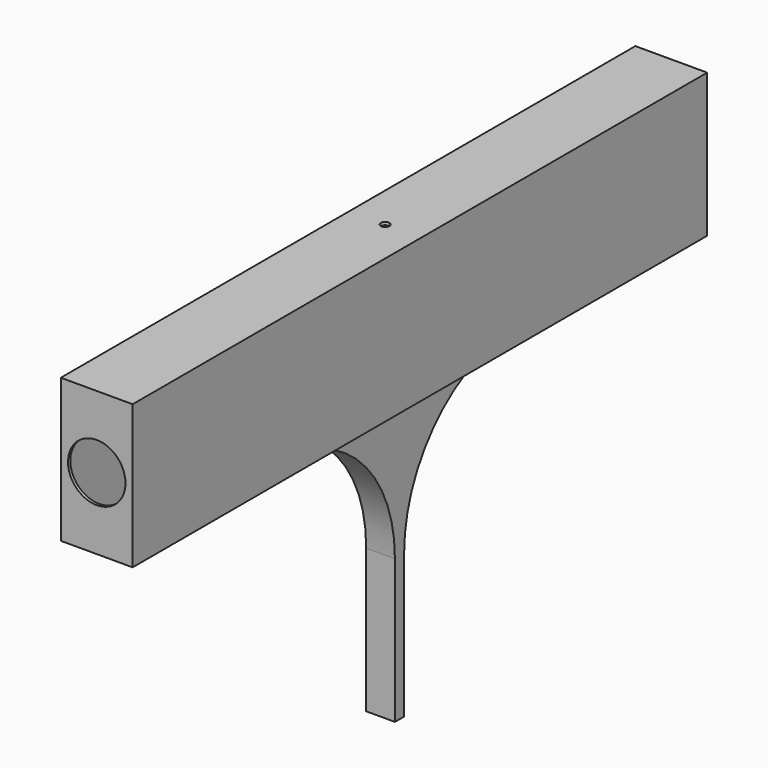
from build123d import *

# Parameters (mm, degrees)
F1_DEPTH = 1.25
F2_DEPTH = 0.5
F3_DEPTH = 0.5
F4_T     = -0.1
F6_DEPTH = 0.1
F8_DEPTH = 0.1
F9_D     = 2
F11_D    = 0.3


with BuildPart() as f1:
    # F0 (on Right) → F1 (new body, symmetric)
    with BuildSketch(Plane.YZ):
        Polygon((-96.8298226595, 19.8576506227), (-96.8298226595, 24.8576506227), (-121.8298226595, 24.8576506227), (-121.8298226595, 19.8576506227), (-114.4798226595, 19.8576506227), (-114.3298226595, 19.8576506227), (-114.2798226595, 19.8576506227), (-109.2798226595, 19.8576506227), (-104.2298226595, 19.8576506227), (-104.0798226595, 19.8576506227), align=None)
    extrude(amount=F1_DEPTH, both=True)

    # F0 (on Right) → F2 (join)
    with BuildSketch(Plane.YZ):
        with BuildLine():
            ThreePointArc((-109.0798226595, 14.8576506227), (-107.6153565654, 18.3931845287), (-104.0798226595, 19.8576506227))
            Line((-104.0798226595, 19.8576506227), (-104.2298226595, 19.8576506227))
            Line((-104.2298226595, 19.8576506227), (-109.2798226595, 19.8576506227))
            Line((-109.2798226595, 19.8576506227), (-109.2798226595, 9.8576506227))
            Line((-109.2798226595, 9.8576506227), (-109.0798226595, 9.8576506227))
            Line((-109.0798226595, 9.8576506227), (-109.0798226595, 14.8576506227))
        make_face()
        with BuildLine():
            Line((-114.3298226595, 19.8576506227), (-114.4798226595, 19.8576506227))
            ThreePointArc((-114.4798226595, 19.8576506227), (-110.9442887536, 18.3931845287), (-109.4798226595, 14.8576506227))
            Line((-109.4798226595, 14.8576506227), (-109.4798226595, 9.8576506227))
            Line((-109.4798226595, 9.8576506227), (-109.2798226595, 9.8576506227))
            Line((-109.2798226595, 9.8576506227), (-109.2798226595, 19.8576506227))
            Line((-109.2798226595, 19.8576506227), (-114.2798226595, 19.8576506227))
            Line((-114.2798226595, 19.8576506227), (-114.3298226595, 19.8576506227))
        make_face()
    extrude(amount=F2_DEPTH)

    # F0 (on Right) → F3 (join)
    with BuildSketch(Plane.YZ):
        with BuildLine():
            ThreePointArc((-109.0798226595, 14.8576506227), (-107.6153565654, 18.3931845287), (-104.0798226595, 19.8576506227))
            Line((-104.0798226595, 19.8576506227), (-104.2298226595, 19.8576506227))
            Line((-104.2298226595, 19.8576506227), (-109.2798226595, 19.8576506227))
            Line((-109.2798226595, 19.8576506227), (-109.2798226595, 9.8576506227))
            Line((-109.2798226595, 9.8576506227), (-109.0798226595, 9.8576506227))
            Line((-109.0798226595, 9.8576506227), (-109.0798226595, 14.8576506227))
        make_face()
        with BuildLine():
            Line((-114.3298226595, 19.8576506227), (-114.4798226595, 19.8576506227))
            ThreePointArc((-114.4798226595, 19.8576506227), (-110.9442887536, 18.3931845287), (-109.4798226595, 14.8576506227))
            Line((-109.4798226595, 14.8576506227), (-109.4798226595, 9.8576506227))
            Line((-109.4798226595, 9.8576506227), (-109.2798226595, 9.8576506227))
            Line((-109.2798226595, 9.8576506227), (-109.2798226595, 19.8576506227))
            Line((-109.2798226595, 19.8576506227), (-114.2798226595, 19.8576506227))
            Line((-114.2798226595, 19.8576506227), (-114.3298226595, 19.8576506227))
        make_face()
    extrude(amount=-F3_DEPTH)

    # F4
    f4_openings = [f1.faces().sort_by_distance(p)[0] for p in [
        (0, -96.829823, 22.357651),
        (0, -121.829823, 22.357651),
    ]]
    offset(amount=F4_T, openings=f4_openings, kind=Kind.INTERSECTION)

    # F5 (on face) → F6 (join)
    with BuildSketch(Plane.XZ.offset(121.8298226595)):
        Polygon((0, 24.7576506227), (-1.15, 24.7576506227), (-1.15, 19.9576506227), (0, 19.9576506227), (0, 22.4076506227), align=None)
        Polygon((1.15, 24.7576506227), (0, 24.7576506227), (0, 22.4076506227), (0, 19.9576506227), (1.15, 19.9576506227), align=None)
    extrude(amount=-F6_DEPTH)

    # F7 (on face) → F8 (join)
    with BuildSketch(Plane(origin=(0, -96.8298226595, 0), x_dir=(-1, 0, 0), z_dir=(0, 1, 0))):
        Polygon((0, 24.7576506227), (-1.15, 24.7576506227), (-1.15, 19.9576506227), (0, 19.9576506227), (0, 22.3576506227), align=None)
        Polygon((1.15, 24.7576506227), (0, 24.7576506227), (0, 22.3576506227), (0, 19.9576506227), (1.15, 19.9576506227), align=None)
    extrude(amount=-F8_DEPTH)

    # F9 (through all)
    with Locations(Plane(origin=(0, -96.8298226595, 0), x_dir=(-1, 0, 0), z_dir=(0, 1, 0))):
        with Locations((0, 22.3576506227)):
            Hole(F9_D / 2)

    # F11 (through all)
    with Locations(Plane(origin=(0, 0, 9.8576506227), x_dir=(1, 0, 0), z_dir=(0, 0, -1))):
        with Locations((0, 109.2798226595)):
            Hole(F11_D / 2)


solid = f1.part
